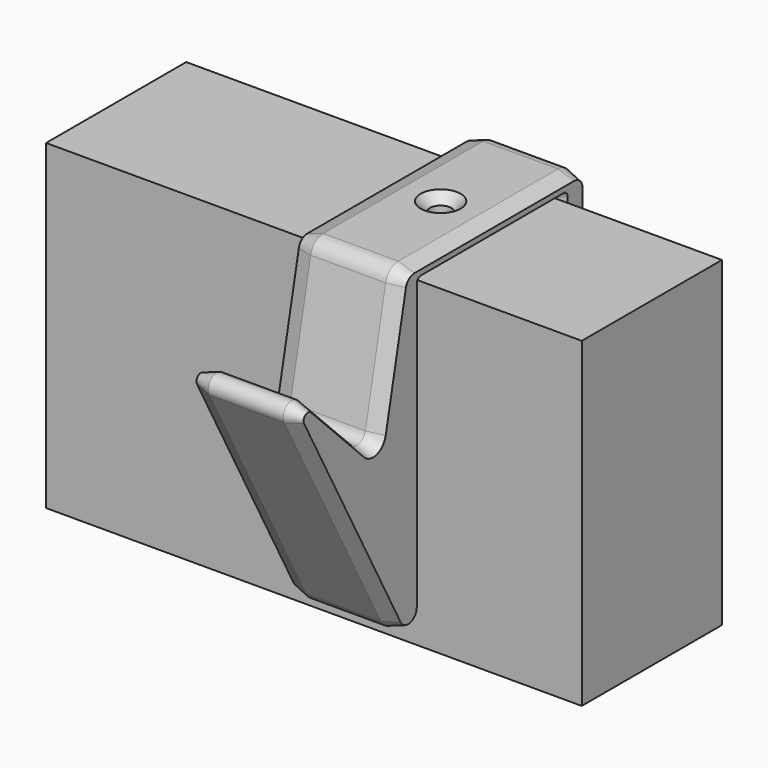
from build123d import *

# Parameters (mm, degrees)
F0_W            = 32.7
F0_H            = 60
F1_DEPTH        = 50
F1_DEPTH_BACK   = 50
F3_DEPTH        = 20
F4_R            = 3
F5_R            = 2
F6_R            = 3
F7_R            = 2
F8_R            = 3
F9_SIZE2        = 1
F9_SIZE         = 3
F10_SIZE2       = 3
F10_SIZE        = 1
F12_D           = 4
F12_CSINK_D     = 7.5
F12_CSINK_ANGLE = 90
F13_R           = 1


with BuildPart() as f1:
    # F0 (on Right) → F1 (new body, two sides)
    with BuildSketch(Plane.YZ) as f1_sk:
        with Locations((16.35, -30)):
            Rectangle(F0_W, F0_H)
    extrude(amount=F1_DEPTH)
    extrude(f1_sk.sketch, amount=-F1_DEPTH_BACK)


with BuildPart() as f3:
    # F2 (on Right) → F3 (new body)
    with BuildSketch(Plane.YZ):
        with BuildLine():
            Line((-28.1746166165, -12.7468722772), (0, -65))
            Line((0, -65), (0, 0))
            Line((0, 0), (33.2, 0))
            Line((33.2, 0), (33.2, -7))
            Line((33.2, -7), (35.7, -9.5))
            Line((35.7, -9.5), (35.7, -29))
            Line((35.7, -29), (31.7, -33))
            Line((31.7, -33), (31.7, -40))
            Line((31.7, -40), (38.7, -47))
            Line((38.7, -47), (38.7, 3))
            Line((38.7, 3), (-4, 3))
            Line((-4, 3), (-10, -25.3834584793))
            Line((-10, -25.3834584793), (-25, -10.3834584793))
            ThreePointArc((-25, -10.3834584793), (-27.6085305161, -10.1934254852), (-28.1746166165, -12.7468722772))
        make_face()
    extrude(amount=F3_DEPTH)

    # F4
    f4_edges = [f3.edges().sort_by_distance(p)[0] for p in [
        (10, 0, -65),
    ]]
    fillet(f4_edges, radius=F4_R)

    # F5
    f5_edges = [f3.edges().sort_by_distance(p)[0] for p in [
        (10, -10, -25.383458),
    ]]
    fillet(f5_edges, radius=F5_R)

    # F6
    f6_edges = [f3.edges().sort_by_distance(p)[0] for p in [
        (10, -4, 3),
        (10, 38.7, 3),
    ]]
    fillet(f6_edges, radius=F6_R)

    # F7
    f7_edges = [f3.edges().sort_by_distance(p)[0] for p in [
        (10, 38.7, -47),
    ]]
    fillet(f7_edges, radius=F7_R)

    # F8
    f8_edges = [f3.edges().sort_by_distance(p)[0] for p in [
        (10, 33.2, -7),
        (10, 35.7, -9.5),
        (10, 35.7, -29),
        (10, 31.7, -33),
        (10, 31.7, -40),
    ]]
    fillet(f8_edges, radius=F8_R)

    # F9
    f9_edges = [f3.edges().sort_by_distance(p)[0] for p in [
        (20, 33.932233, -42.232233),
        (20, 31.928361, -39.90541),
        (20, 37.465367, -44.019332),
        (20, 31.7, -36.5),
        (20, 38.7, -21.085786),
        (20, 31.928361, -33.09459),
        (20, 37.82132, 2.12132),
        (20, 33.7, -31),
        (20, 17.066062, 3),
        (20, 35.471639, -28.90541),
        (20, -3.457137, 2.330384),
        (20, 35.7, -19.25),
        (20, -6.870084, -10.577149),
        (20, 35.471639, -9.59459),
        (20, -10.624812, -23.278441),
        (20, 34.45, -8.25),
        (20, -18.804063, -16.579396),
        (20, 33.428361, -6.90541),
        (20, -27.608531, -10.193425),
        (20, 33.2, -2.87868),
        (20, -16.907611, -33.642855),
        (20, 16.6, 0),
        (20, -2.26577, -56.023801),
        (20, 0, -26.557519),
    ]]
    chamfer(f9_edges, length=F9_SIZE, length2=F9_SIZE2)

    # F10
    f10_edges = [f3.edges().sort_by_distance(p)[0] for p in [
        (0, 33.932233, -42.232233),
        (0, 31.928361, -39.90541),
        (0, 37.465367, -44.019332),
        (0, 31.7, -36.5),
        (0, 38.7, -21.085786),
        (0, 31.928361, -33.09459),
        (0, 37.82132, 2.12132),
        (0, 33.7, -31),
        (0, 17.066062, 3),
        (0, 35.471639, -28.90541),
        (0, -3.457137, 2.330384),
        (0, 35.7, -19.25),
        (0, -6.870084, -10.577149),
        (0, 35.471639, -9.59459),
        (0, -10.624812, -23.278441),
        (0, 34.45, -8.25),
        (0, -18.804063, -16.579396),
        (0, 33.428361, -6.90541),
        (0, -27.608531, -10.193425),
        (0, 33.2, -2.87868),
        (0, -16.907611, -33.642855),
        (0, 16.6, 0),
        (0, -2.26577, -56.023801),
        (0, 0, -26.557519),
    ]]
    f10_side = f3.faces().sort_by_distance((0, 34.564645, -41.599821))[0]
    chamfer(f10_edges, length=F10_SIZE, length2=F10_SIZE2, reference=f10_side)

    # F12 (through all)
    with Locations(Plane.XY.offset(3)):
        with Locations((10, 17.0660621668)):
            CounterSinkHole(F12_D / 2, F12_CSINK_D / 2, counter_sink_angle=F12_CSINK_ANGLE)

    # F13 (call 1 of 4: OpenCascade refuses the feature's edges together)
    f13_edges = [f3.edges().sort_by_distance(p)[0] for p in [
        (18.5, -0.5, 0.5),
    ]]
    fillet(f13_edges, radius=F13_R)

    # F13#2 (call 2 of 4)
    f13_2_edges = [f3.edges().sort_by_distance(p)[0] for p in [
        (18.5, 33.7, 0.5),
    ]]
    fillet(f13_2_edges, radius=F13_R)

    # F13#3 (call 3 of 4)
    f13_3_edges = [f3.edges().sort_by_distance(p)[0] for p in [
        (1.5, -0.5, 0.5),
    ]]
    fillet(f13_3_edges, radius=F13_R)

    # F13#4 (call 4 of 4)
    f13_4_edges = [f3.edges().sort_by_distance(p)[0] for p in [
        (1.5, 33.7, 0.5),
    ]]
    fillet(f13_4_edges, radius=F13_R)


solid = Compound([f1.part, f3.part])
